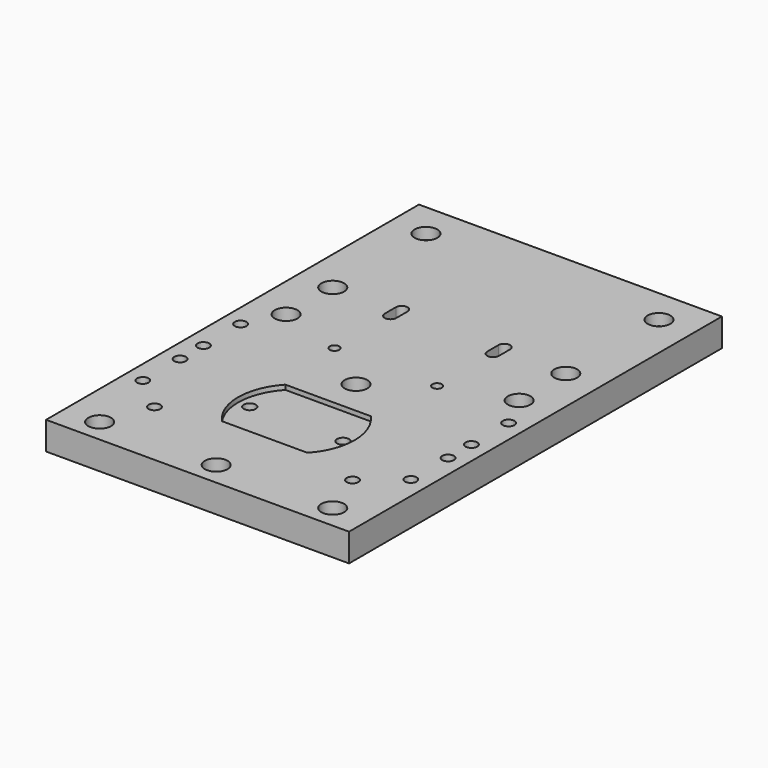
from build123d import *

# Parameters (mm, degrees)
F0_W            = 130
F0_H            = 200
F1_DEPTH        = 12
F3_D            = 5.5
F3_CBORE_D      = 9.75
F3_CBORE_DEPTH  = 5
F5_DEPTH        = 25
F7_DEPTH        = 6
F9_DEPTH        = 2
F11_D           = 5.1
F11_CBORE_D     = 11
F11_CBORE_DEPTH = 6
F13_D           = 5
F13_CBORE_D     = 10
F13_CBORE_DEPTH = 6
F15_D           = 4.1


with BuildPart() as f1:
    # F0 (on Top) → F1 (new body)
    with BuildSketch(Plane.XY):
        Rectangle(F0_W, F0_H)
    extrude(amount=F1_DEPTH)

    # F3 (through all)
    with Locations(Plane.XY.offset(12)):
        with Locations((-50, -90), (0, -90), (50, -90), (-50, 10), (-50, 35), (50, 10), (50, 35), (-50, 85), (50, 85), (0, -15)):
            CounterBoreHole(F3_D / 2, F3_CBORE_D / 2, F3_CBORE_DEPTH)

    # F4 (on face) → F5 (cut)
    with BuildSketch(Plane.XY.offset(12)):
        with BuildLine():
            ThreePointArc((-19.5, 37), (-22, 39.5), (-24.5, 37))
            Line((-24.5, 37), (-24.5, 31))
            ThreePointArc((-24.5, 31), (-22, 28.5), (-19.5, 31))
            Line((-19.5, 31), (-19.5, 37))
        make_face()
        with BuildLine():
            ThreePointArc((24.5, 37), (22, 39.5), (19.5, 37))
            Line((19.5, 37), (19.5, 31))
            ThreePointArc((19.5, 31), (22, 28.5), (24.5, 31))
            Line((24.5, 31), (24.5, 37))
        make_face()
    extrude(amount=-F5_DEPTH, mode=Mode.SUBTRACT)

    # F6 (on face) → F7 (cut)
    with BuildSketch(Plane(origin=(0, 0, 0), x_dir=(1, 0, 0), z_dir=(0, 0, -1))):
        with BuildLine():
            ThreePointArc((17, -37), (22, -42), (27, -37))
            Line((27, -37), (27, -31))
            ThreePointArc((27, -31), (22, -26), (17, -31))
            Line((17, -31), (17, -37))
        make_face()
        with BuildLine():
            Line((24.5, -31), (24.5, -37))
            ThreePointArc((24.5, -37), (22, -39.5), (19.5, -37))
            Line((19.5, -37), (19.5, -31))
            ThreePointArc((19.5, -31), (22, -28.5), (24.5, -31))
        make_face(mode=Mode.SUBTRACT)
        with BuildLine():
            Line((-27, -31), (-27, -37))
            ThreePointArc((-27, -37), (-22, -42), (-17, -37))
            Line((-17, -37), (-17, -31))
            ThreePointArc((-17, -31), (-22, -26), (-27, -31))
        make_face()
        with BuildLine():
            Line((-19.5, -31), (-19.5, -37))
            ThreePointArc((-19.5, -37), (-22, -39.5), (-24.5, -37))
            Line((-24.5, -37), (-24.5, -31))
            ThreePointArc((-24.5, -31), (-22, -28.5), (-19.5, -31))
        make_face(mode=Mode.SUBTRACT)
    extrude(amount=-F7_DEPTH, mode=Mode.SUBTRACT)

    # F8 (on face) → F9 (cut)
    with BuildSketch(Plane.XY.offset(12)):
        with BuildLine():
            Line((-18.3303027798, -64), (18.3303027798, -64))
            ThreePointArc((18.3303027798, -64), (25, -47), (18.3303027798, -30))
            Line((18.3303027798, -30), (-18.3303027798, -30))
            ThreePointArc((-18.3303027798, -30), (-25, -47), (-18.3303027798, -64))
        make_face()
    extrude(amount=-F9_DEPTH, mode=Mode.SUBTRACT)

    # F11 (through all)
    with Locations(Plane(origin=(0, 0, 0), x_dir=(1, 0, 0), z_dir=(0, 0, -1))):
        with Locations((20, 47), (-20, 47)):
            CounterBoreHole(F11_D / 2, F11_CBORE_D / 2, F11_CBORE_DEPTH)

    # F13 (through all)
    with Locations(Plane(origin=(0, 0, 0), x_dir=(1, 0, 0), z_dir=(0, 0, -1))):
        with Locations((57.5, 57.5), (57.5, 37.5), (-57.5, 57.5), (-57.5, 37.5), (57.5, 25), (57.5, 5), (-57.5, 25), (-57.5, 5), (-42.5, 70), (42.5, 70)):
            CounterBoreHole(F13_D / 2, F13_CBORE_D / 2, F13_CBORE_DEPTH)

    # F15 (through all)
    with Locations(Plane.XY.offset(12)):
        with Locations((22, 1), (-22, 1)):
            Hole(F15_D / 2)


solid = f1.part
